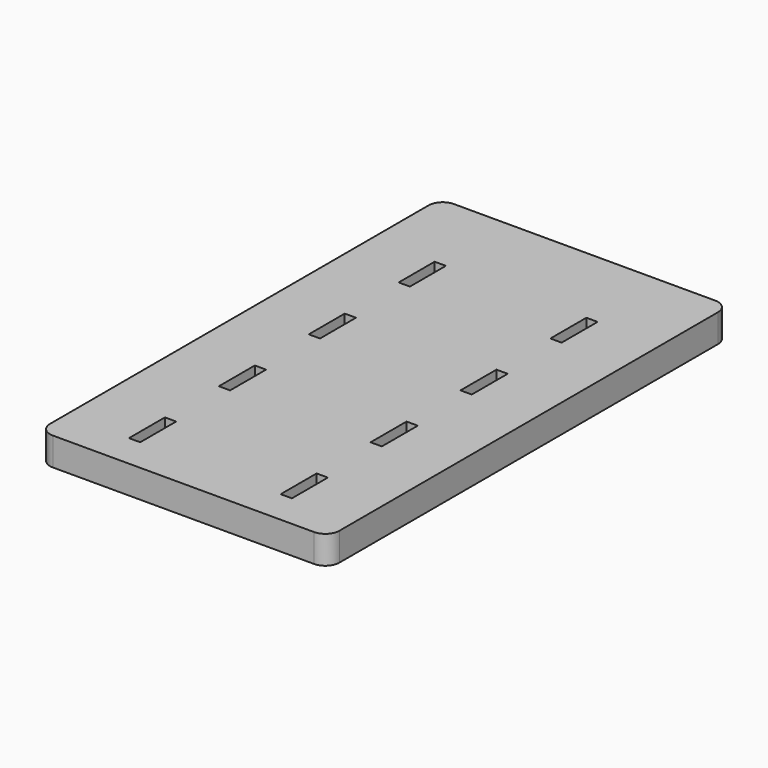
from build123d import *

# Parameters (mm, degrees)
F0_W     = 2.54
F0_H     = 10.16
F1_DEPTH = 6.35


with BuildPart() as f1:
    # F0 (on Top) → F1 (new body)
    with BuildSketch(Plane.XY):
        with BuildLine():
            ThreePointArc((-36.84507, 47.773027), (-35.915134, 45.527963), (-33.67007, 44.598027))
            Line((-33.67007, 44.598027), (25.38493, 44.598027))
            ThreePointArc((25.38493, 44.598027), (27.629994, 45.527963), (28.55993, 47.773027))
            Line((28.55993, 47.773027), (28.55993, 154.732427))
            ThreePointArc((28.55993, 154.732427), (27.629994, 156.977491), (25.38493, 157.907427))
            Line((25.38493, 157.907427), (-33.67007, 157.907427))
            ThreePointArc((-33.67007, 157.907427), (-35.915134, 156.977491), (-36.84507, 154.732427))
            Line((-36.84507, 154.732427), (-36.84507, 47.773027))
        make_face()
        with Locations((-21.28757, 57.298027)):
            Rectangle(F0_W, F0_H, mode=Mode.SUBTRACT)
        with Locations((-21.28757, 82.698027)):
            Rectangle(F0_W, F0_H, mode=Mode.SUBTRACT)
        with Locations((13.00243, 57.298027)):
            Rectangle(F0_W, F0_H, mode=Mode.SUBTRACT)
        with Locations((13.00243, 82.698027)):
            Rectangle(F0_W, F0_H, mode=Mode.SUBTRACT)
        with Locations((-21.28757, 108.098027)):
            Rectangle(F0_W, F0_H, mode=Mode.SUBTRACT)
        with Locations((-21.28757, 133.498027)):
            Rectangle(F0_W, F0_H, mode=Mode.SUBTRACT)
        with Locations((13.00243, 108.098027)):
            Rectangle(F0_W, F0_H, mode=Mode.SUBTRACT)
        with Locations((13.00243, 133.498027)):
            Rectangle(F0_W, F0_H, mode=Mode.SUBTRACT)
    extrude(amount=F1_DEPTH)


solid = f1.part
